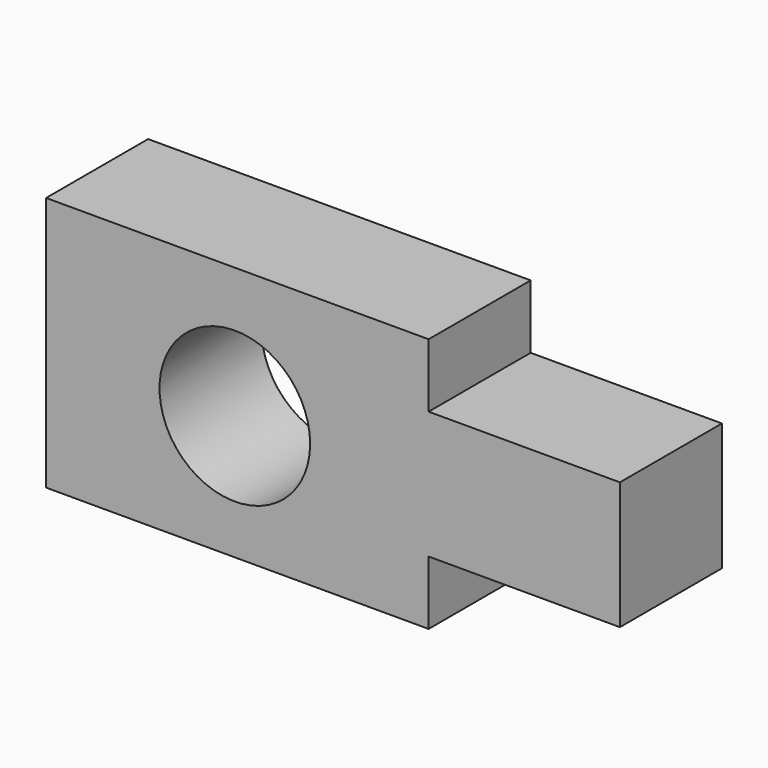
from build123d import *

# Parameters (mm, degrees)
F1_DEPTH = 12.7
F2_R     = 7.5003
F3_DEPTH = 25.4


with BuildPart() as f1:
    # F0 (on Front) → F1 (new body)
    with BuildSketch(Plane.XZ):
        Polygon((0, 25.4), (0, 0), (38.1, 0), (38.1, 6.35), (57.15, 6.35), (57.15, 19.05), (38.1, 19.05), (38.1, 25.4), align=None)
    extrude(amount=F1_DEPTH)

    # F2 (on face) → F3 (cut)
    with BuildSketch(Plane.XZ.offset(12.7)):
        with Locations((18.798027, 12.391964)):
            Circle(F2_R)
    extrude(amount=-F3_DEPTH, mode=Mode.SUBTRACT)


solid = f1.part
